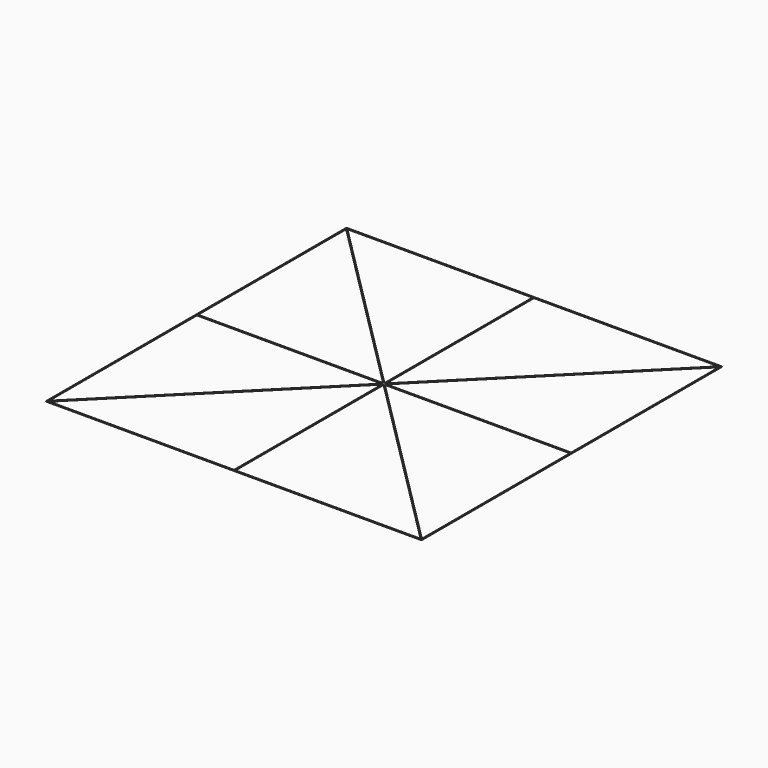
from build123d import *

# Parameters (mm, degrees)
F1_W     = 203.2
F1_H     = 203.2
F2_DEPTH = 0.254


with BuildPart() as f2:
    # F1 (on Top) → F2 (new body)
    with BuildSketch(Plane.XY):
        Rectangle(F1_W, F1_H)
        Polygon((-0.254, -101.092), (-100.73279, -101.092), (-0.254, -0.61321), align=None, mode=Mode.SUBTRACT)
        Polygon((-0.61321, -0.254), (-101.092, -100.73279), (-101.092, -0.254), align=None, mode=Mode.SUBTRACT)
        Polygon((100.73279, -101.092), (0.254, -101.092), (0.254, -0.61321), align=None, mode=Mode.SUBTRACT)
        Polygon((101.092, -0.254), (101.092, -100.73279), (0.61321, -0.254), align=None, mode=Mode.SUBTRACT)
        Polygon((-101.092, 0.254), (-101.092, 100.73279), (-0.61321, 0.254), align=None, mode=Mode.SUBTRACT)
        Polygon((-0.254, 0.61321), (-100.73279, 101.092), (-0.254, 101.092), align=None, mode=Mode.SUBTRACT)
        Polygon((0.61321, 0.254), (101.092, 100.73279), (101.092, 0.254), align=None, mode=Mode.SUBTRACT)
        Polygon((0.254, 0.61321), (0.254, 101.092), (100.73279, 101.092), align=None, mode=Mode.SUBTRACT)
    extrude(amount=F2_DEPTH)


solid = f2.part
